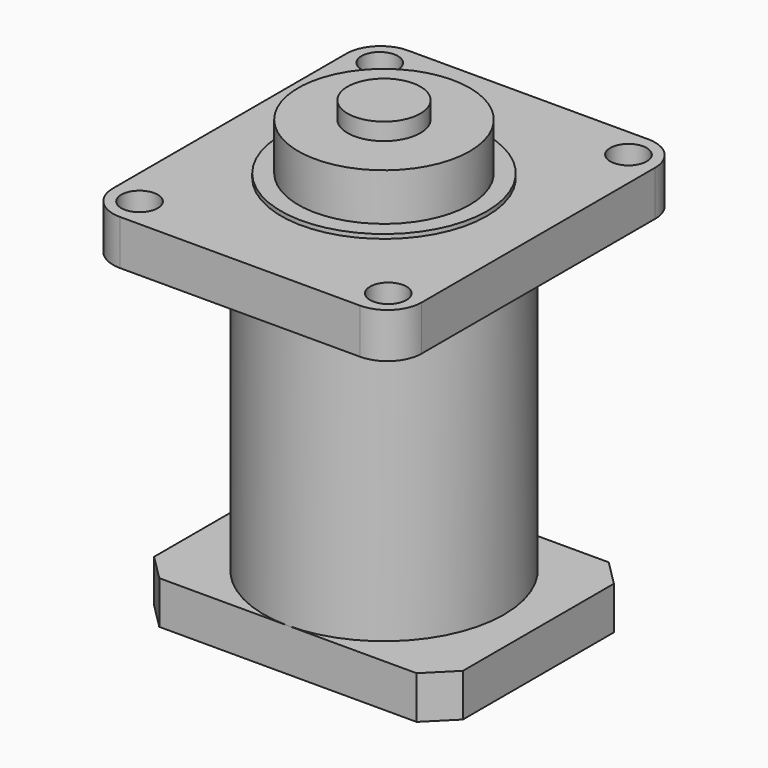
from build123d import *

# Parameters (mm, degrees)
F0_R      = 26.9875
F1_DEPTH  = 66.675
F2_R      = 152.4
F3_DEPTH  = 6.35
F4_R      = 127
F5_DEPTH  = 76.2
F6_R      = 53.975
F7_DEPTH  = 25.4
F8_R      = 177.8
F9_DEPTH  = 508
F10_W     = 457.2
F10_H     = 355.6
F11_DEPTH = 63.5
F12_SIZE  = 38.1


with BuildPart() as f1:
    # F0 (on Top) → F1 (new body)
    with BuildSketch(Plane.XY):
        with BuildLine():
            Line((177.8, 266.7), (-177.8, 266.7))
            ThreePointArc((-177.8, 266.7), (-213.721024, 251.821024), (-228.6, 215.9))
            Line((-228.6, 215.9), (-228.6, -215.9))
            ThreePointArc((-228.6, -215.9), (-213.721024, -251.821024), (-177.8, -266.7))
            Line((-177.8, -266.7), (177.8, -266.7))
            ThreePointArc((177.8, -266.7), (213.721024, -251.821024), (228.6, -215.9))
            Line((228.6, -215.9), (228.6, 215.9))
            ThreePointArc((228.6, 215.9), (213.721024, 251.821024), (177.8, 266.7))
        make_face()
        with Locations((-184.15, -222.25)):
            Circle(F0_R, mode=Mode.SUBTRACT)
        with Locations((184.15, -222.25)):
            Circle(F0_R, mode=Mode.SUBTRACT)
        with Locations((-184.15, 222.25)):
            Circle(F0_R, mode=Mode.SUBTRACT)
        with Locations((184.15, 222.25)):
            Circle(F0_R, mode=Mode.SUBTRACT)
    extrude(amount=F1_DEPTH)

    # F2 (on face) → F3 (join)
    with BuildSketch(Plane.XY.offset(66.675)):
        Circle(F2_R)
    extrude(amount=F3_DEPTH)

    # F4 (on face) → F5 (join)
    with BuildSketch(Plane.XY.offset(66.675)):
        Circle(F4_R)
    extrude(amount=F5_DEPTH)

    # F6 (on face) → F7 (join)
    with BuildSketch(Plane.XY.offset(142.875)):
        Circle(F6_R)
    extrude(amount=F7_DEPTH)

    # F8 (on face) → F9 (join)
    with BuildSketch(Plane(origin=(0, 0, 0), x_dir=(1, 0, 0), z_dir=(0, 0, -1))):
        Circle(F8_R)
    extrude(amount=F9_DEPTH)

    # F10 (on face) → F11 (join)
    with BuildSketch(Plane(origin=(0, 0, -508), x_dir=(1, 0, 0), z_dir=(0, 0, -1))):
        Rectangle(F10_W, F10_H)
    extrude(amount=-F11_DEPTH)

    # F12
    f12_edges = [f1.edges().sort_by_distance(p)[0] for p in [
        (228.6, -177.8, -476.25),
        (-228.6, -177.8, -476.25),
        (228.6, 177.8, -476.25),
        (-228.6, 177.8, -476.25),
    ]]
    chamfer(f12_edges, length=F12_SIZE)


solid = f1.part
